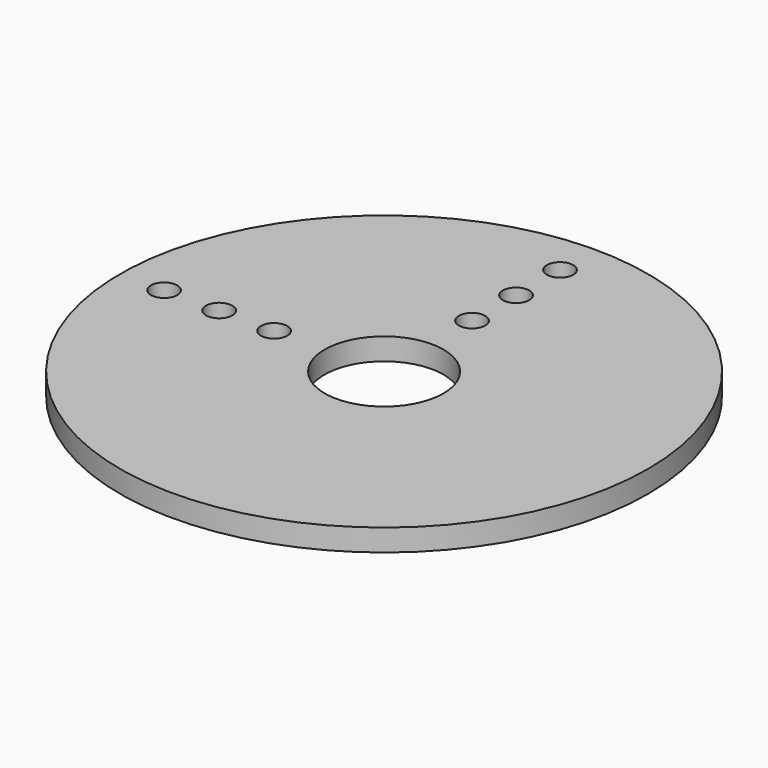
from build123d import *

# Parameters (mm, degrees)
F0_R     = 12
F0_R_2   = 0.6
F0_R_3   = 2.7
F1_DEPTH = 1


with BuildPart() as f1:
    # F0 (on Top) → F1 (new body)
    with BuildSketch(Plane.XY):
        Circle(F0_R)
        with Locations((-10, 0)):
            Circle(F0_R_2, mode=Mode.SUBTRACT)
        with Locations((-7.5, 0)):
            Circle(F0_R_2, mode=Mode.SUBTRACT)
        with Locations((-5, 0)):
            Circle(F0_R_2, mode=Mode.SUBTRACT)
        Circle(F0_R_3, mode=Mode.SUBTRACT)
        with Locations((0, 5)):
            Circle(F0_R_2, mode=Mode.SUBTRACT)
        with Locations((0, 7.5)):
            Circle(F0_R_2, mode=Mode.SUBTRACT)
        with Locations((0, 10)):
            Circle(F0_R_2, mode=Mode.SUBTRACT)
    extrude(amount=F1_DEPTH)


solid = f1.part
